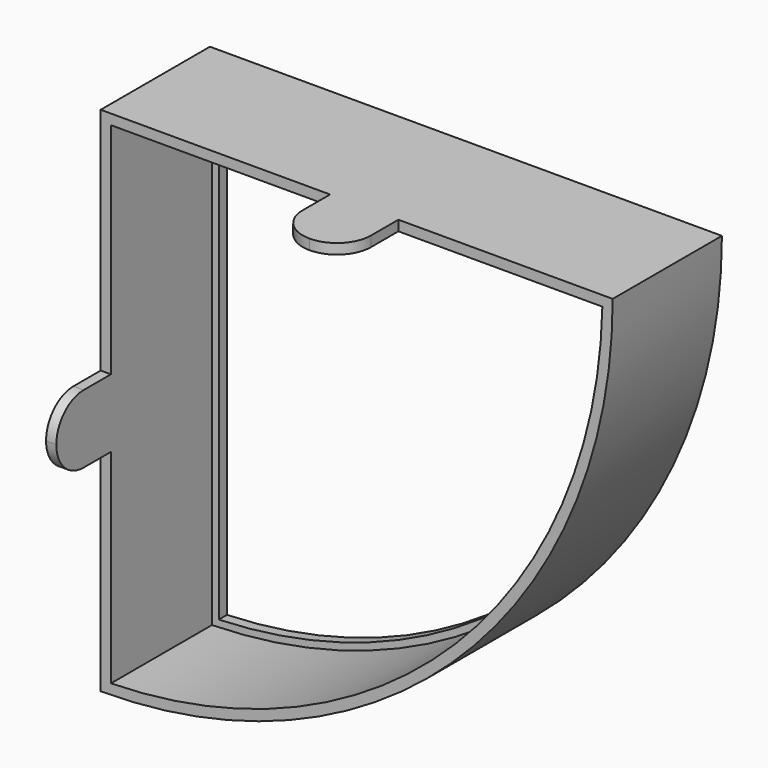
from build123d import *

# Parameters (mm, degrees)
F1_DEPTH = 40
F2_W     = 3
F2_H     = 20
F2_W_2   = 20.007767
F2_H_2   = 3
F3_DEPTH = 20
F4_R     = 9.99
F5_R     = 9.99
F7_DEPTH = 40
F9_DEPTH = 37


with BuildPart() as f1:
    # F0 (on Front) → F1 (new body)
    with BuildSketch(Plane.XZ):
        with BuildLine():
            Line((0, 0), (0, -150))
            ThreePointArc((0, -150), (106.066017, -106.066017), (150, 0))
            Line((150, 0), (0, 0))
        make_face()
    extrude(amount=F1_DEPTH)

    # F2 (on face) → F3 (join)
    with BuildSketch(Plane.XZ.offset(40)):
        with Locations((1.5, -77.260775)):
            Rectangle(F2_W, F2_H)
        with Locations((77.210668, -1.5)):
            Rectangle(F2_W_2, F2_H_2)
    extrude(amount=F3_DEPTH)

    # F4
    f4_edges = [f1.edges().sort_by_distance(p)[0] for p in [
        (87.214552, -60, -1.5),
    ]]
    fillet(f4_edges, radius=F4_R)

    # F5
    f5_edges = [f1.edges().sort_by_distance(p)[0] for p in [
        (67.206785, -60, -1.5),
        (1.5, -60, -67.260775),
        (1.5, -60, -87.260775),
    ]]
    fillet(f5_edges, radius=F5_R)

    # F6 (on Front) → F7 (cut, through all)
    with BuildSketch(Plane.XZ):
        with BuildLine():
            Line((144.913773, -5), (5, -5))
            Line((5, -5), (5, -144.913773))
            ThreePointArc((5, -144.913773), (102.530487, -102.530487), (144.913773, -5))
        make_face()
    extrude(amount=F7_DEPTH, mode=Mode.SUBTRACT)

    # F8 (on face) → F9 (cut)
    with BuildSketch(Plane.XZ.offset(40)):
        with BuildLine():
            Line((146.969385, -3), (3, -3))
            Line((3, -3), (3, -146.969385))
            ThreePointArc((3, -146.969385), (103.944697, -103.944697), (146.969385, -3))
        make_face()
    extrude(amount=-F9_DEPTH, mode=Mode.SUBTRACT)


solid = f1.part
